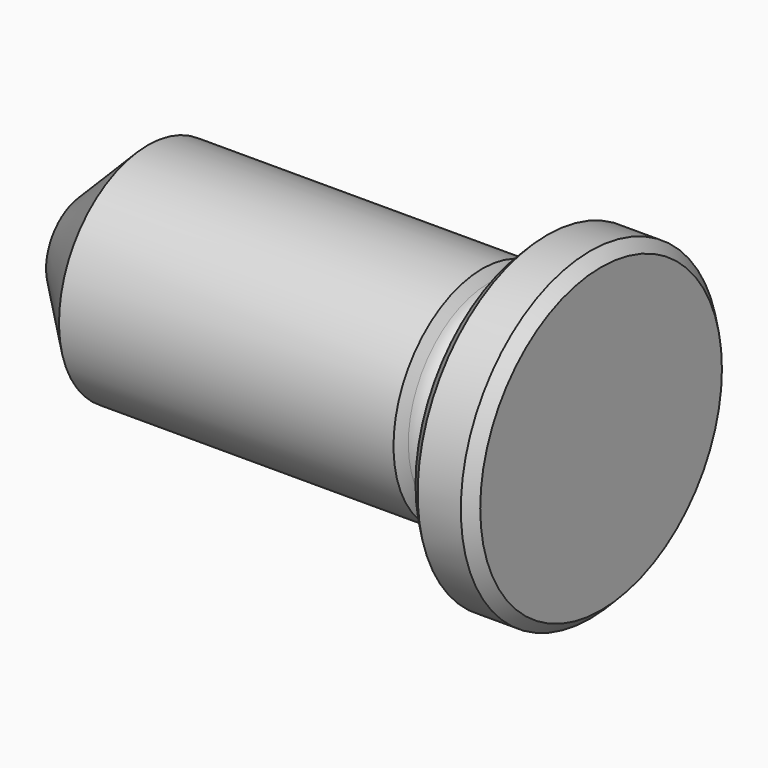
from build123d import *

# Parameters (mm, degrees)
F2_SIZE = 0.5
F3_SIZE = 3


with BuildPart() as f1:
    # F0 (on Front) → F1 (revolve)
    with BuildSketch(Plane.XZ):
        with BuildLine():
            Line((-12.635403, 5.15), (-12.635403, 0))
            Line((-12.635403, 0), (11.364597, 0))
            Line((11.364597, 0), (11.364597, 7.5))
            Line((11.364597, 7.5), (8.364597, 7.5))
            Line((8.364597, 7.5), (8.364597, 5.15))
            ThreePointArc((8.364597, 5.15), (8.071704, 4.442893), (7.364597, 4.15))
            Line((7.364597, 4.15), (7.019298, 4.15))
            ThreePointArc((7.019298, 4.15), (6.519298, 4.283975), (6.153272, 4.65))
            Line((6.153272, 4.65), (5.864597, 5.15))
            Line((5.864597, 5.15), (-12.635403, 5.15))
        make_face()
    revolve(axis=Axis((-0.635403, 0, 0), (1, 0, 0)))

    # F2
    f2_edges = [f1.edges().sort_by_distance(p)[0] for p in [
        (11.364597, 0, -7.5),
        (8.364597, 0, -7.5),
    ]]
    chamfer(f2_edges, length=F2_SIZE)

    # F3
    f3_edges = [f1.edges().sort_by_distance(p)[0] for p in [
        (-12.635403, 0, -5.15),
    ]]
    chamfer(f3_edges, length=F3_SIZE)


solid = f1.part
